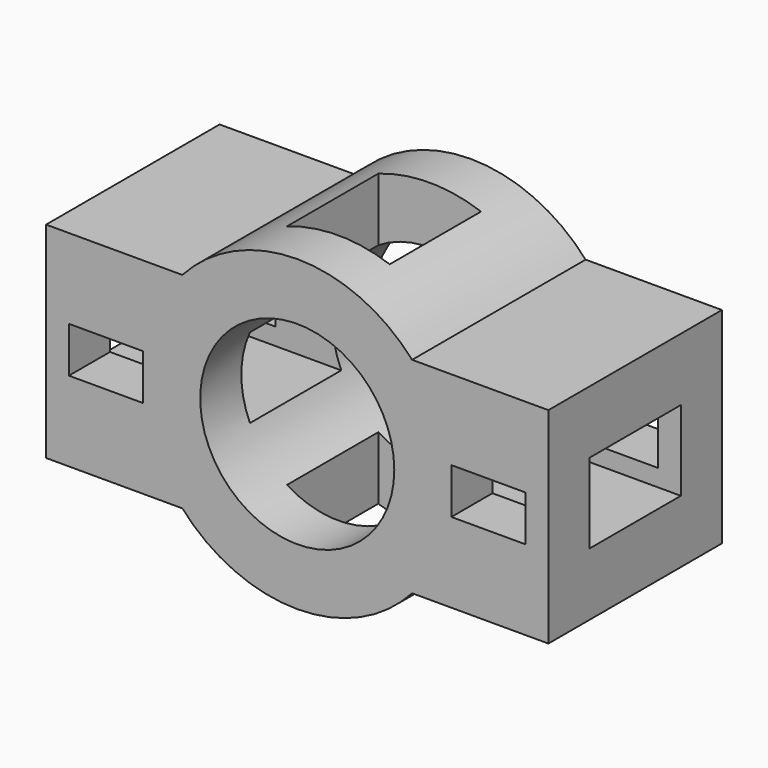
from build123d import *

# Parameters (mm, degrees)
F0_R     = 17
F1_DEPTH = 19
F2_W     = 20
F2_H     = 14
F3_DEPTH = 88.001
F4_W     = 13
F4_H     = 8
F5_DEPTH = 38.001
F6_W     = 18
F6_H     = 20
F7_DEPTH = 50


with BuildPart() as f1:
    # F0 (on Front) → F1 (new body, symmetric)
    with BuildSketch(Plane.XZ):
        with BuildLine():
            ThreePointArc((-20.124612, -18), (-27, 0), (-20.124612, 18))
            Line((-20.124612, 18), (-44, 18))
            Line((-44, 18), (-44, -18))
            Line((-44, -18), (-20.124612, -18))
        make_face()
        with BuildLine():
            Line((-20.124612, -18), (-20.124612, 18))
            ThreePointArc((-20.124612, 18), (-27, 0), (-20.124612, -18))
        make_face()
        with BuildLine():
            Line((20.124612, -18), (20.124612, 18))
            ThreePointArc((20.124612, 18), (0, 27), (-20.124612, 18))
            Line((-20.124612, 18), (-20.124612, -18))
            ThreePointArc((-20.124612, -18), (0, -27), (20.124612, -18))
        make_face()
        Circle(F0_R, mode=Mode.SUBTRACT)
        with BuildLine():
            ThreePointArc((20.124612, -18), (25.222654, -9.634196), (27, 0))
            ThreePointArc((27, 0), (25.222654, 9.634196), (20.124612, 18))
            Line((20.124612, 18), (20.124612, -18))
        make_face()
        with BuildLine():
            ThreePointArc((20.124612, 18), (25.222654, 9.634196), (27, 0))
            ThreePointArc((27, 0), (25.222654, -9.634196), (20.124612, -18))
            Line((20.124612, -18), (44, -18))
            Line((44, -18), (44, 18))
            Line((44, 18), (20.124612, 18))
        make_face()
    extrude(amount=F1_DEPTH, both=True)

    # F2 (on face) → F3 (cut, through all)
    with BuildSketch(Plane.YZ.offset(44)):
        Rectangle(F2_W, F2_H)
    extrude(amount=-F3_DEPTH, mode=Mode.SUBTRACT)

    # F4 (on face) → F5 (cut, through all)
    with BuildSketch(Plane.XZ.offset(19)):
        with Locations((-33.5, 0)):
            Rectangle(F4_W, F4_H)
        with Locations((33.5, 0)):
            Rectangle(F4_W, F4_H)
    extrude(amount=-F5_DEPTH, mode=Mode.SUBTRACT)

    # F6 (on Top) → F7 (cut, symmetric)
    with BuildSketch(Plane.XY):
        Rectangle(F6_W, F6_H)
    extrude(amount=F7_DEPTH, both=True, mode=Mode.SUBTRACT)


solid = f1.part
